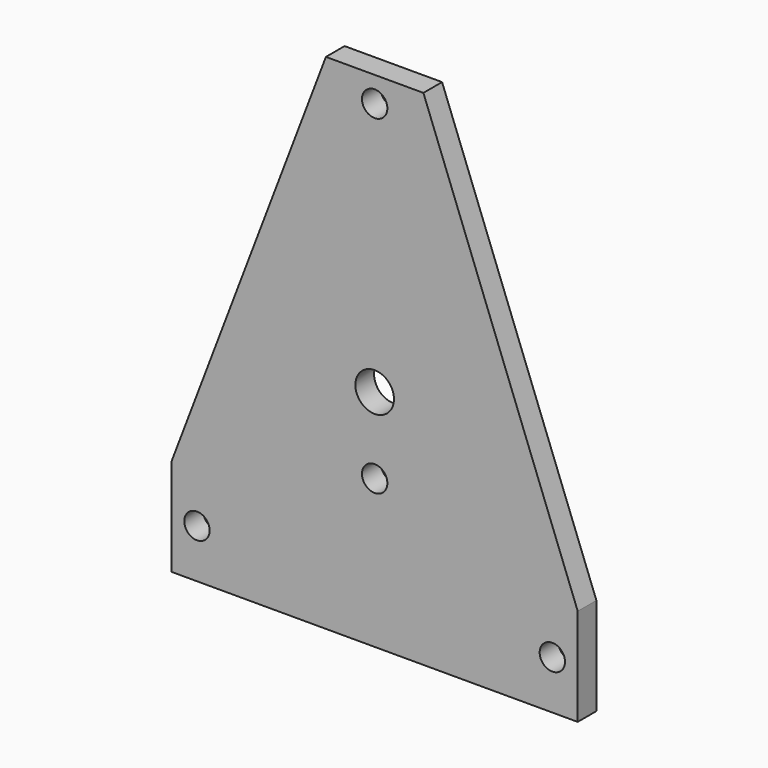
from build123d import *

# Parameters (mm, degrees)
F0_R     = 1.5875
F0_R_2   = 2.413
F1_DEPTH = 2.921


with BuildPart() as f1:
    # F0 (on Front) → F1 (new body)
    with BuildSketch(Plane.XZ):
        Polygon((-6.096, 50.8), (-25.4, 0), (-25.4, -12.192), (25.4, -12.192), (25.4, 0), (6.096, 50.8), align=None)
        with Locations((-22.225, -6.096)):
            Circle(F0_R, mode=Mode.SUBTRACT)
        with Locations((0, 6.35)):
            Circle(F0_R, mode=Mode.SUBTRACT)
        with Locations((0, 15.875)):
            Circle(F0_R_2, mode=Mode.SUBTRACT)
        with Locations((22.225, -6.096)):
            Circle(F0_R, mode=Mode.SUBTRACT)
        with Locations((0, 47.625)):
            Circle(F0_R, mode=Mode.SUBTRACT)
    extrude(amount=-F1_DEPTH)


solid = f1.part
